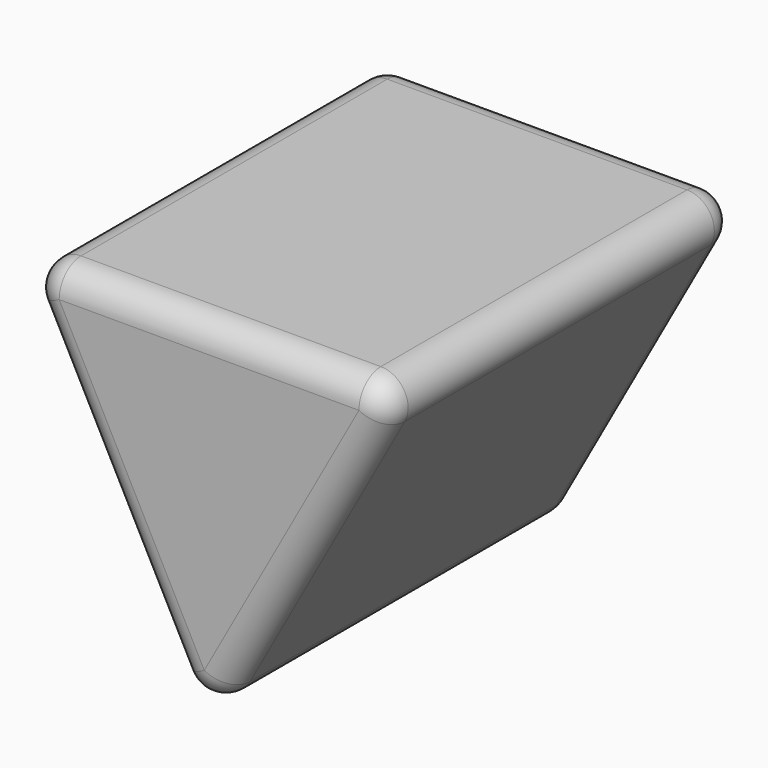
from build123d import *

# Parameters (mm, degrees)
F1_DEPTH = 50.8
F2_R     = 6.35


with BuildPart() as f1:
    # F0 (on Front) → F1 (new body, symmetric)
    with BuildSketch(Plane.XZ):
        Polygon((46.885282, 40.869065), (-43.980941, 40.869065), (0, -43.773443), align=None)
    extrude(amount=F1_DEPTH, both=True)

    # F2
    f2_edges = [f1.edges().sort_by_distance(p)[0] for p in [
        (1.45217, -50.8, 40.869065),
        (23.442641, -50.8, -1.452189),
        (0, 0, -43.773443),
        (-21.990471, 50.8, -1.452189),
        (-43.980941, 0, 40.869065),
        (46.885282, 0, 40.869065),
        (23.442641, 50.8, -1.452189),
        (1.45217, 50.8, 40.869065),
        (-21.990471, -50.8, -1.452189),
    ]]
    fillet(f2_edges, radius=F2_R)


solid = f1.part
